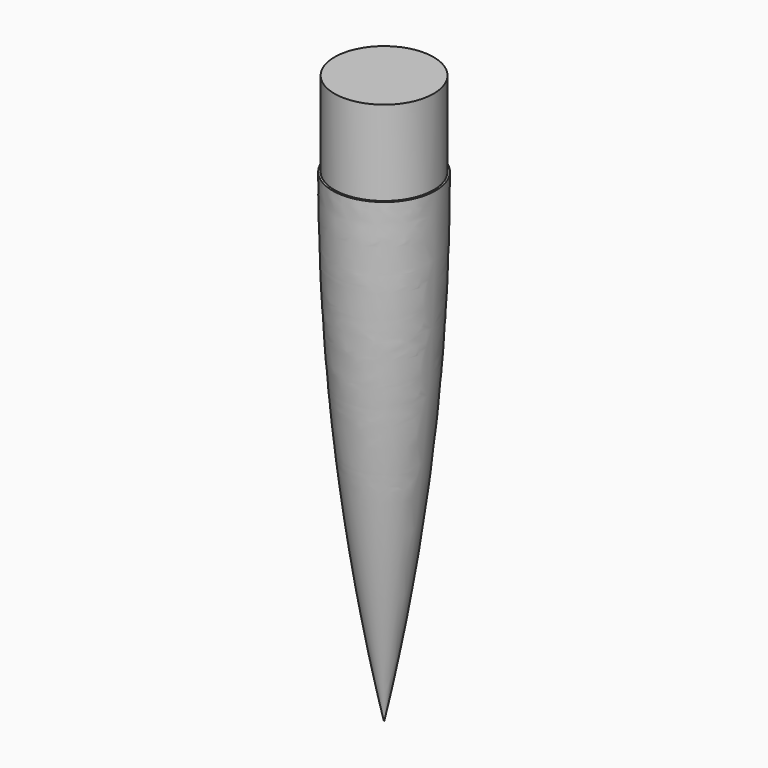
from build123d import *

# Parameters (mm, degrees)
F3_R     = 52
F4_DEPTH = 25.4
F5_DEPTH = 63.5


with BuildPart() as f2:
    # F0 (on Front) → F2 (revolve)
    with BuildSketch(Plane.XZ):
        with BuildLine():
            Line((54, 0), (0, 0))
            Line((0, 0), (0, -508))
            ThreePointArc((0, -508), (40.4620780602, -255.4310082977), (54, 0))
        make_face()
    revolve(axis=Axis((0, 0, 0), (0, 0, 1)))

    # F3 (on face) → F4 (join)
    with BuildSketch(Plane.XY):
        Circle(F3_R)
    extrude(amount=F4_DEPTH)

    # F5 (add): a face of the model
    f5_faces = [f2.faces().sort_by_distance(p)[0] for p in [
        (0, 0, 25.4),
    ]]
    extrude(f5_faces, amount=F5_DEPTH)


solid = f2.part
